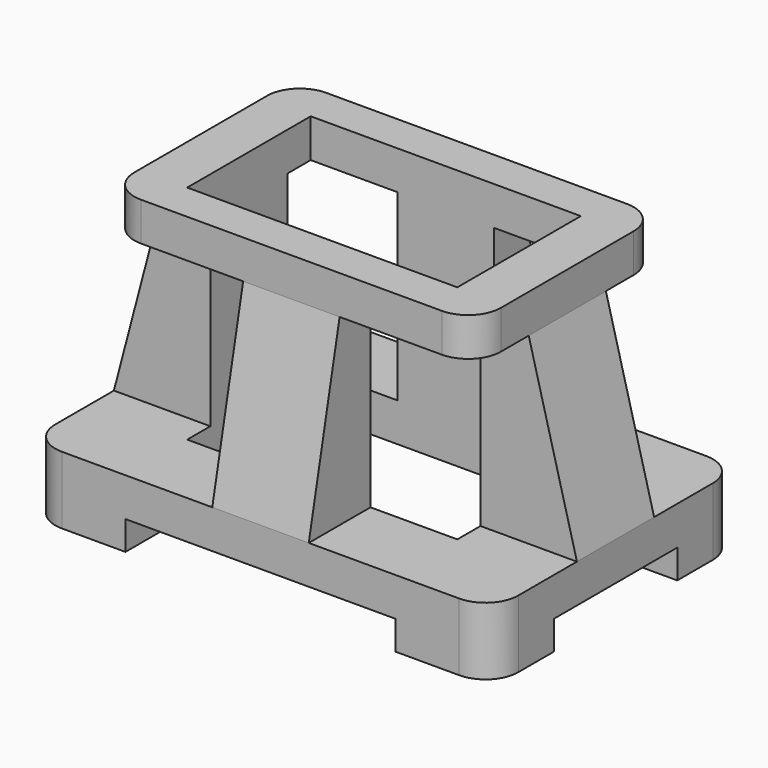
from build123d import *

# Parameters (mm, degrees)
PAD_DEPTH            = 35
PAD001_DEPTH         = 20
SKETCH002_W          = 140
SKETCH002_H          = 80
POCKET_DEPTH         = 150.001
PAD002_DEPTH         = 25
PAD003_DEPTH         = 25
SKETCH006_W          = 140
SKETCH006_H          = 15
POCKET001_DEPTH      = 80.001
POCKET001_DEPTH_BACK = -80.001
SKETCH007_W          = 80
SKETCH007_H          = 15
POCKET002_DEPTH      = 120.001
POCKET002_DEPTH_BACK = -120.001


with BuildPart() as part:
    # Sketch (on XY_Plane of Origin) → Pad (new body)
    with BuildSketch(Plane.XY):
        with BuildLine():
            Line((-120, 63), (-120, -63))
            ThreePointArc((-120, -63), (-115.020815, -75.020815), (-103, -80))
            Line((-103, -80), (103, -80))
            ThreePointArc((103, -80), (115.020815, -75.020815), (120, -63))
            Line((120, -63), (120, 63))
            ThreePointArc((120, 63), (115.020815, 75.020815), (103, 80))
            Line((103, 80), (-103, 80))
            ThreePointArc((-103, 80), (-115.020815, 75.020815), (-120, 63))
        make_face()
    extrude(amount=PAD_DEPTH)

    # Sketch001 (on XY_Plane of Origin) → Pad001 (join)
    with BuildSketch(Plane.XY.offset(150)):
        with BuildLine():
            Line((-95, 43), (-95, -43))
            ThreePointArc((-95, -43), (-90.020815, -55.020815), (-78, -60))
            Line((-78, -60), (78, -60))
            ThreePointArc((78, -60), (90.020815, -55.020815), (95, -43))
            Line((95, -43), (95, 43))
            ThreePointArc((95, 43), (90.020815, 55.020815), (78, 60))
            Line((78, 60), (-78, 60))
            ThreePointArc((-78, 60), (-90.020815, 55.020815), (-95, 43))
        make_face()
    extrude(amount=-PAD001_DEPTH)

    # Sketch002 (on Face19 of Pad001) → Pocket (cut, through all)
    with BuildSketch(Plane.XY.offset(150)):
        Rectangle(SKETCH002_W, SKETCH002_H)
    extrude(amount=-POCKET_DEPTH, mode=Mode.SUBTRACT)

    # Sketch003 (on YZ_Plane of Origin) → Pad002 (join, symmetric)
    with BuildSketch(Plane.YZ):
        Polygon((-60, 130), (-80, 35), (-40, 35), (-40, 130), align=None)
    pad002 = extrude(amount=PAD002_DEPTH, both=True)

    # Mirrored: Pad002 across Sketch003 V_Axis
    add(pad002.mirror(Plane(origin=(0, 0, 0), x_dir=(1, 0, 0), z_dir=(0, 1, 0))))

    # Sketch005 (on XZ_Plane of Origin) → Pad003 (join, symmetric)
    with BuildSketch(Plane.XZ):
        Polygon((-70, 130), (-70, 35), (-120, 35), (-95, 130), align=None)
    pad003 = extrude(amount=PAD003_DEPTH, both=True)

    # Mirrored001: Pad003 across Sketch005 V_Axis
    add(pad003.mirror(Plane(origin=(0, 0, 0), x_dir=(0, -1, 0), z_dir=(1, 0, 0))))

    # Sketch006 (on XZ_Plane of Origin) → Pocket001 (cut, two sides)
    with BuildSketch(Plane.XZ) as pocket001_sk:
        with Locations((0, 7.5)):
            Rectangle(SKETCH006_W, SKETCH006_H)
    extrude(amount=-POCKET001_DEPTH, mode=Mode.SUBTRACT)
    extrude(pocket001_sk.sketch, amount=-POCKET001_DEPTH_BACK, mode=Mode.SUBTRACT)

    # Sketch007 (on YZ_Plane of Origin) → Pocket002 (cut, two sides)
    with BuildSketch(Plane.YZ) as pocket002_sk:
        with Locations((0, 7.5)):
            Rectangle(SKETCH007_W, SKETCH007_H)
    extrude(amount=-POCKET002_DEPTH, mode=Mode.SUBTRACT)
    extrude(pocket002_sk.sketch, amount=-POCKET002_DEPTH_BACK, mode=Mode.SUBTRACT)


solid = part.part
